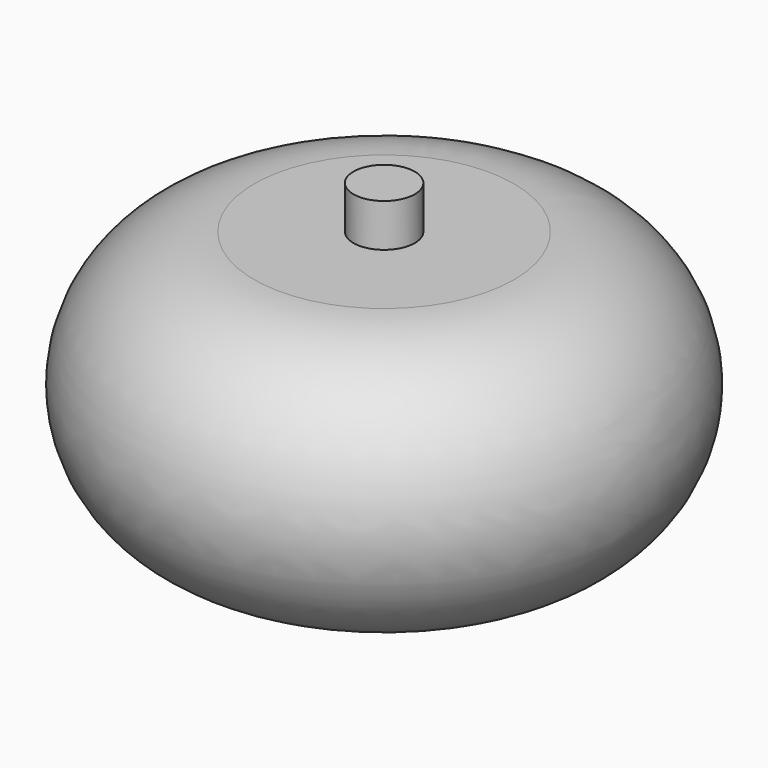
from build123d import *

# Parameters (mm, degrees)
F2_R     = 3.622421
F3_DEPTH = 5.08
F5_DEPTH = 50.8


with BuildPart() as f1:
    # F0 (on Front) → F1 (revolve)
    with BuildSketch(Plane.XZ):
        with BuildLine():
            Line((0, 31.681616), (0, 0))
            Line((0, 0), (15.353743, 0))
            ThreePointArc((15.353743, 0), (31.194551, 15.840808), (15.353743, 31.681616))
            Line((15.353743, 31.681616), (0, 31.681616))
        make_face()
    revolve(axis=Axis((0, 0, 15.840808), (0, 0, -1)))

    # F2 (on face) → F3 (join)
    with BuildSketch(Plane.XY.offset(31.681616)):
        Circle(F2_R)
    extrude(amount=F3_DEPTH)

    # F4 (on Front) → F5 (cut)
    with BuildSketch(Plane.XZ):
        Polygon((-13.114861, 17.769501), (-7.324063, 22.304462), (-18.835891, 23.490531), align=None)
        Polygon((14.513528, 23.141688), (4.745915, 21.885851), (10.466945, 17.350888), align=None)
        Polygon((-5.649615, 10.234484), (-10.114809, 11.141478), (-11.510182, 11.629858), (-10.254347, 8.211194), (-7.254294, 6.397209), (-3.207712, 6.397209), (1.536557, 6.397209), (4.745915, 6.397209), (8.373886, 8.211194), (9.490184, 10.862403), (7.187818, 10.234484), (-2.998406, 10.234484), (-2.998406, 7.583275), (-5.649615, 7.583275), align=None)
    extrude(amount=-F5_DEPTH, mode=Mode.SUBTRACT)


solid = f1.part
